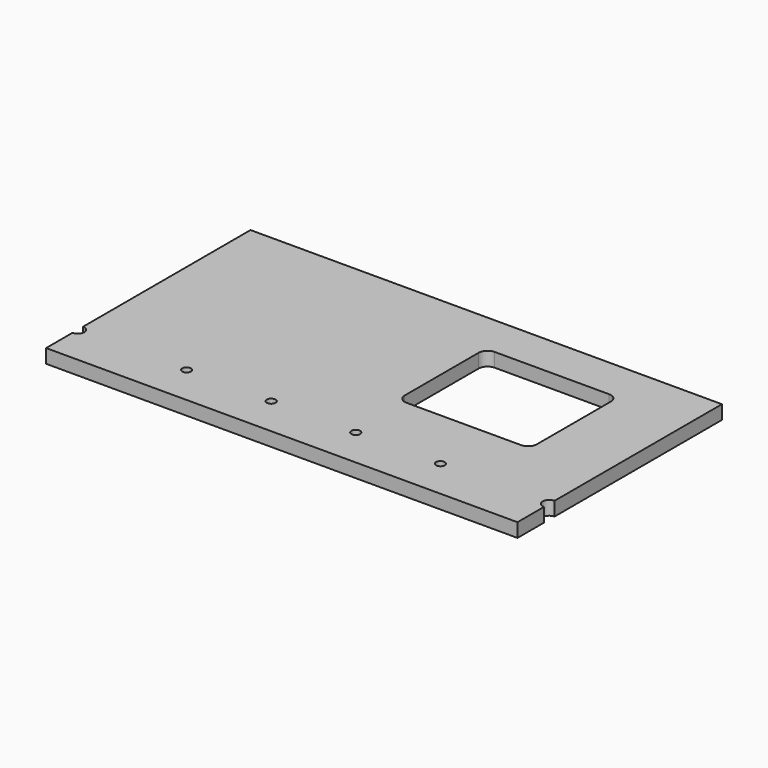
from build123d import *

# Parameters (mm, degrees)
F0_R     = 0.5
F1_DEPTH = 1.5748


with BuildPart() as f1:
    # F0 (on Top) → F1 (new body)
    with BuildSketch(Plane.XY):
        with BuildLine():
            Line((-26.75, -0.75), (-26.75, -4.5))
            Line((-26.75, -4.5), (26.75, -4.5))
            Line((26.75, -4.5), (26.75, -0.75))
            ThreePointArc((26.75, -0.75), (26, 0), (26.75, 0.75))
            Line((26.75, 0.75), (26.75, 24.5))
            Line((26.75, 24.5), (-26.75, 24.5))
            Line((-26.75, 24.5), (-26.75, 0.75))
            ThreePointArc((-26.75, 0.75), (-26, 0), (-26.75, -0.75))
        make_face()
        with Locations((-14.4, 0)):
            Circle(F0_R, mode=Mode.SUBTRACT)
        with Locations((-4.8, 0)):
            Circle(F0_R, mode=Mode.SUBTRACT)
        with Locations((4.8, 0)):
            Circle(F0_R, mode=Mode.SUBTRACT)
        with Locations((14.4, 0)):
            Circle(F0_R, mode=Mode.SUBTRACT)
        with BuildLine():
            ThreePointArc((3.75, 18.75), (4.042893, 19.457107), (4.75, 19.75))
            Line((4.75, 19.75), (17.75, 19.75))
            ThreePointArc((17.75, 19.75), (18.457107, 19.457107), (18.75, 18.75))
            Line((18.75, 18.75), (18.75, 8.25))
            ThreePointArc((18.75, 8.25), (18.457107, 7.542893), (17.75, 7.25))
            Line((17.75, 7.25), (4.75, 7.25))
            ThreePointArc((4.75, 7.25), (4.042893, 7.542893), (3.75, 8.25))
            Line((3.75, 8.25), (3.75, 18.75))
        make_face(mode=Mode.SUBTRACT)
    extrude(amount=F1_DEPTH)


solid = f1.part
